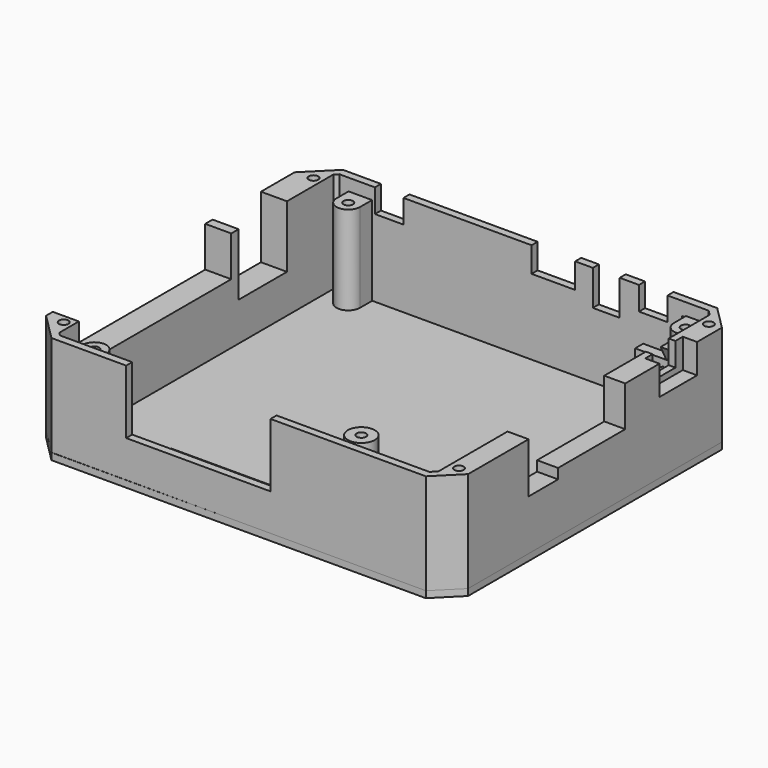
from build123d import *

# Parameters (mm, degrees)
CYLINDER007_R              = 3.5
CYLINDER007_DEPTH          = 8
CYLINDER007_ROLL_ANGLE     = -90
CYLINDER008_R              = 0.6
CYLINDER008_DEPTH          = 11
PRISM001_DEPTH             = 10
PRISM001_ROLL_ANGLE        = 90.00003
PRISM001_PITCH_ANGLE       = -30.000033
PRISM001_PLACEMENT_ANGLE   = -8e-06
BOX015_W                   = 10
BOX015_H                   = 18
BOX015_DEPTH               = 20
BOX016_W                   = 10
BOX016_H                   = 11
BOX016_DEPTH               = 15
BOX017_W                   = 10
BOX017_H                   = 25
BOX017_DEPTH               = 12
BOX018_W                   = 8.5
BOX018_H                   = 4
BOX018_DEPTH               = 7
BOX019_W                   = 8
BOX019_H                   = 4
BOX019_DEPTH               = 10.5
BOX020_W                   = 8.5
BOX020_H                   = 4
BOX020_DEPTH               = 7
BOX021_W                   = 13
BOX021_H                   = 4
BOX021_DEPTH               = 8
BOX022_W                   = 10
BOX022_H                   = 8.5
BOX022_DEPTH               = 8
BOX023_W                   = 5
BOX023_H                   = 14
BOX023_DEPTH               = 9
BOX024_W                   = 43
BOX024_H                   = 4
BOX024_DEPTH               = 19
SKETCH104_R                = 1.4
EXTRUDE093_DEPTH           = 12
BOX014_W                   = 10
BOX014_H                   = 56.75
BOX014_DEPTH               = 12
EXTRUDE092_DEPTH           = 30
EXTRUDE091_DEPTH           = 30
SKETCH101_R                = 4
SKETCH101_R_2              = 1.4
SKETCH101_R_3              = 2.25
EXTRUDE090_DEPTH           = 27.4
BOX026_W                   = 13
BOX026_H                   = 3
BOX026_DEPTH               = 15
EXTRUDE094_DEPTH           = 2.5
SKETCH100_W                = 47
SKETCH100_H                = 15
EXTRUDE089_DEPTH           = 2
EXTRUDE089_ROLL_ANGLE      = -0.000172
EXTRUDE089_PITCH_ANGLE     = -0.040176
EXTRUDE089_PLACEMENT_ANGLE = 2.8e-05


with BuildPart() as cylinder007:
    # Cylinder007 → Cylinder007 (new body)
    with BuildSketch(Plane.XY):
        Circle(CYLINDER007_R)
    extrude(amount=CYLINDER007_DEPTH)


with BuildPart() as cylinder007_1:
    # Cylinder007 roll: moved
    add(cylinder007.part.rotate(Axis((0, 0, 0), (1, 0, 0)), CYLINDER007_ROLL_ANGLE))


with BuildPart() as cylinder007_2:
    # Cylinder007 placement: moved
    add(cylinder007_1.part.moved(Location((42.4, 48, 10))))


with BuildPart() as cylinder008:
    # Cylinder008 → Cylinder008 (new body)
    with BuildSketch(Plane(origin=(46.125, 51.85, 17), x_dir=(1, 0, 0), z_dir=(0, 0, 1))):
        Circle(CYLINDER008_R)
    extrude(amount=CYLINDER008_DEPTH)


with BuildPart() as fusion035005:
    # Prism001 → Prism001 (new body)
    with BuildSketch(Plane.XY):
        Polygon((5, 0), (2.5, 4.330127), (-2.5, 4.330127), (-5, 0), (-2.5, -4.330127), (2.5, -4.330127), align=None)
    extrude(amount=PRISM001_DEPTH)


with BuildPart() as fusion035005_1:
    # Prism001 roll: moved
    add(fusion035005.part.rotate(Axis((0, 0, 0), (1, 0, 0)), PRISM001_ROLL_ANGLE))


with BuildPart() as fusion035005_2:
    # Prism001 pitch: moved
    add(fusion035005_1.part.rotate(Axis((0, 0, 0), (0, 1, 0)), PRISM001_PITCH_ANGLE))


with BuildPart() as fusion035005_3:
    # Prism001 placement: moved
    add(fusion035005_2.part.moved(Location((42.4, 51.75, 10))).rotate(Axis((42.4, 51.75, 10), (0, 0, 1)), PRISM001_PLACEMENT_ANGLE))

    # Fusion035005: union Cylinder007, Cylinder008
    add(cylinder007_2.part)
    add(cylinder008.part)


with BuildPart() as cube015:
    # Box015 → Box015 (new body)
    with BuildSketch(Plane(origin=(-67, 15.5, 8.5), x_dir=(1, 0, 0), z_dir=(0, 0, 1))):
        with Locations((5, 9)):
            Rectangle(BOX015_W, BOX015_H)
    extrude(amount=BOX015_DEPTH)


with BuildPart() as cube016:
    # Box016 → Box016 (new body)
    with BuildSketch(Plane(origin=(54, -25, 12), x_dir=(1, 0, 0), z_dir=(0, 0, 1))):
        with Locations((5, 5.5)):
            Rectangle(BOX016_W, BOX016_H)
    extrude(amount=BOX016_DEPTH)


with BuildPart() as cube017:
    # Box017 → Box017 (new body)
    with BuildSketch(Plane(origin=(54, -14, 15), x_dir=(1, 0, 0), z_dir=(0, 0, 1))):
        with Locations((5, 12.5)):
            Rectangle(BOX017_W, BOX017_H)
    extrude(amount=BOX017_DEPTH)


with BuildPart() as cube018:
    # Box018 → Box018 (new body)
    with BuildSketch(Plane(origin=(32.75, 51, 20), x_dir=(1, 0, 0), z_dir=(0, 0, 1))):
        with Locations((4.25, 2)):
            Rectangle(BOX018_W, BOX018_H)
    extrude(amount=BOX018_DEPTH)


with BuildPart() as cube019:
    # Box019 → Box019 (new body)
    with BuildSketch(Plane(origin=(19, 51, 16.5), x_dir=(1, 0, 0), z_dir=(0, 0, 1))):
        with Locations((4, 2)):
            Rectangle(BOX019_W, BOX019_H)
    extrude(amount=BOX019_DEPTH)


with BuildPart() as cube020:
    # Box020 → Box020 (new body)
    with BuildSketch(Plane(origin=(-45.9, 51, 20), x_dir=(1, 0, 0), z_dir=(0, 0, 1))):
        with Locations((4.25, 2)):
            Rectangle(BOX020_W, BOX020_H)
    extrude(amount=BOX020_DEPTH)


with BuildPart() as cube021:
    # Box021 → Box021 (new body)
    with BuildSketch(Plane(origin=(0.75, 51, 19.5), x_dir=(1, 0, 0), z_dir=(0, 0, 1))):
        with Locations((6.5, 2)):
            Rectangle(BOX021_W, BOX021_H)
    extrude(amount=BOX021_DEPTH)


with BuildPart() as cube022:
    # Box022 → Box022 (new body)
    with BuildSketch(Plane(origin=(54, 26.5, 20), x_dir=(1, 0, 0), z_dir=(0, 0, 1))):
        with Locations((5, 4.25)):
            Rectangle(BOX022_W, BOX022_H)
    extrude(amount=BOX022_DEPTH)


with BuildPart() as cube023:
    # Box023 → Box023 (new body)
    with BuildSketch(Plane(origin=(57, 23.75, 18.25), x_dir=(1, 0, 0), z_dir=(0, 0, 1))):
        with Locations((2.5, 7)):
            Rectangle(BOX023_W, BOX023_H)
    extrude(amount=BOX023_DEPTH)


with BuildPart() as cube024:
    # Box024 → Box024 (new body)
    with BuildSketch(Plane(origin=(-35, -56, 8), x_dir=(1, 0, 0), z_dir=(0, 0, 1))):
        with Locations((21.5, 2)):
            Rectangle(BOX024_W, BOX024_H)
    extrude(amount=BOX024_DEPTH)


with BuildPart() as extrude093:
    # Sketch104 → Extrude093 (new body)
    with BuildSketch(Plane.XY.offset(27)):
        with Locations((-60, 46.5)):
            Circle(SKETCH104_R)
        with Locations((57.75, 46.5)):
            Circle(SKETCH104_R)
        with Locations((-60, -46.5)):
            Circle(SKETCH104_R)
        with Locations((57.75, -46.5)):
            Circle(SKETCH104_R)
    extrude(amount=-EXTRUDE093_DEPTH)


with BuildPart() as fusion035003:
    # Box014 → Box014 (new body)
    with BuildSketch(Plane(origin=(-67, -44, 15), x_dir=(1, 0, 0), z_dir=(0, 0, 1))):
        with Locations((5, 28.375)):
            Rectangle(BOX014_W, BOX014_H)
    extrude(amount=BOX014_DEPTH)

    # Fusion035003: union Cube015, Cube016, Cube017, Cube018, Cube019, Cube020, Cube021, Cube022, Cube023, Cube024, Extrude093
    add(cube015.part)
    add(cube016.part)
    add(cube017.part)
    add(cube018.part)
    add(cube019.part)
    add(cube020.part)
    add(cube021.part)
    add(cube022.part)
    add(cube023.part)
    add(cube024.part)
    add(extrude093.part)


with BuildPart() as fusion035003_1:
    # Fusion035003 placement: moved
    add(fusion035003.part.moved(Location((0, 0, 5))))


with BuildPart() as extrude092:
    # Sketch103 → Extrude092 (new body)
    with BuildSketch(Plane.XY):
        Polygon((53.5, -52.25), (-56.5, -52.25), (-57.5, -51.25), (-57.5, 50.75), (-56.5, 51.75), (53.5, 51.75), (55, 50.25), (55, -50.75), align=None)
    extrude(amount=EXTRUDE092_DEPTH)


with BuildPart() as cut008:
    # Sketch102 → Extrude091 (new body)
    with BuildSketch(Plane.XY):
        Polygon((54.25, -54.5), (-57.25, -54.5), (-65.25, -46.5), (-65.25, 46), (-57.25, 54), (54.25, 54), (61.25, 47), (61.25, -47.5), align=None)
    extrude(amount=EXTRUDE091_DEPTH)

    # Cut007: cut Extrude092
    add(extrude092.part, mode=Mode.SUBTRACT)


with BuildPart() as cut008_1:
    # Cut007 placement: moved
    add(cut008.part.moved(Location((0, 0, 2))))

    # Cut008: cut Fusion035003
    add(fusion035003_1.part, mode=Mode.SUBTRACT)


with BuildPart() as extrude090:
    # Sketch101 → Extrude090 (new body)
    with BuildSketch(Plane.XY):
        with Locations((25.25, -42.25)):
            Circle(SKETCH101_R)
        with Locations((25.25, -42.25)):
            Circle(SKETCH101_R_2, mode=Mode.SUBTRACT)
        with Locations((53.25, -51.25)):
            Circle(SKETCH101_R_3)
        with BuildLine():
            Line((-53.75, 52.75), (-46.75, 52.75))
            Line((-46.75, 52.75), (-46.75, 47.25))
            ThreePointArc((-53.75, 47.25), (-50.25, 43.75), (-46.75, 47.25))
            Line((-53.75, 47.25), (-53.75, 52.75))
        make_face()
        with Locations((-50.25, 47.25)):
            Circle(SKETCH101_R_2, mode=Mode.SUBTRACT)
        with BuildLine():
            Line((46.75, 52.75), (53.75, 52.75))
            Line((53.75, 52.75), (53.75, 47.25))
            ThreePointArc((46.75, 47.25), (50.25, 43.75), (53.75, 47.25))
            Line((46.75, 47.25), (46.75, 52.75))
        make_face()
        with Locations((50.25, 47.25)):
            Circle(SKETCH101_R_2, mode=Mode.SUBTRACT)
        with BuildLine():
            Line((-53.75, -52.75), (-46.75, -52.75))
            Line((-46.75, -52.75), (-46.75, -47.25))
            ThreePointArc((-46.75, -47.25), (-50.25, -43.75), (-53.75, -47.25))
            Line((-53.75, -47.25), (-53.75, -52.75))
        make_face()
        with Locations((-50.25, -47.25)):
            Circle(SKETCH101_R_2, mode=Mode.SUBTRACT)
    extrude(amount=EXTRUDE090_DEPTH)


with BuildPart() as extrude090_1:
    # Extrude090 placement: moved
    add(extrude090.part.moved(Location((0, 0, 1))))


with BuildPart() as cube026:
    # Box026 → Box026 (new body)
    with BuildSketch(Plane(origin=(34, 48.75, 2), x_dir=(1, 0, 0), z_dir=(0, 0, 1))):
        with Locations((6.5, 1.5)):
            Rectangle(BOX026_W, BOX026_H)
    extrude(amount=BOX026_DEPTH)


with BuildPart() as extrude094:
    # Sketch105 → Extrude094 (new body)
    with BuildSketch(Plane.YZ):
        Polygon((0, 0), (0, 5), (-5, 5), (-2.5, 0), align=None)
    extrude(amount=EXTRUDE094_DEPTH)


with BuildPart() as extrude094_1:
    # Extrude094 placement: moved
    add(extrude094.part.moved(Location((43, 52, 16))))


with BuildPart() as obj1:
    # Sketch100 → Extrude089 (new body)
    with BuildSketch(Plane.XY):
        Polygon((54.25, -54.5), (-57.25, -54.5), (-65.25, -46.5), (-65.25, 46), (-57.25, 54), (54.25, 54), (61.25, 47), (61.25, -47.5), align=None)
        with Locations((-13.25, -43)):
            Rectangle(SKETCH100_W, SKETCH100_H, mode=Mode.SUBTRACT)
    extrude(amount=EXTRUDE089_DEPTH)


with BuildPart() as obj1_1:
    # Extrude089 roll: moved
    add(obj1.part.rotate(Axis((0, 0, 0), (1, 0, 0)), EXTRUDE089_ROLL_ANGLE))


with BuildPart() as obj1_2:
    # Extrude089 pitch: moved
    add(obj1_1.part.rotate(Axis((0, 0, 0), (0, 1, 0)), EXTRUDE089_PITCH_ANGLE))


with BuildPart() as obj1_3:
    # Extrude089 placement: moved
    add(obj1_2.part.rotate(Axis((0, 0, 0), (0, 0, 1)), EXTRUDE089_PLACEMENT_ANGLE))

    # Fusion035002: union Extrude090, Cube026, Extrude094
    add(extrude090_1.part)
    add(cube026.part)
    add(extrude094_1.part)

    # Fusion035004: union Cut008
    add(cut008_1.part)

    # Cut009: cut Fusion035005
    add(fusion035005_3.part, mode=Mode.SUBTRACT)


solid = obj1_3.part
